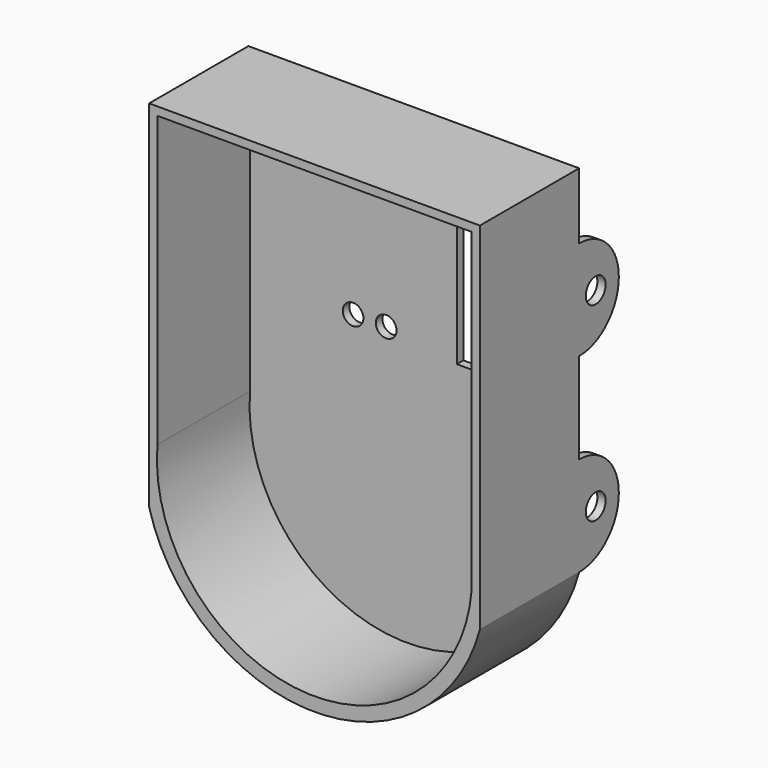
from build123d import *

# Parameters (mm, degrees)
F1_DEPTH = 30
F0_R     = 2.5
F2_DEPTH = 2
F3_R     = 3
F4_DEPTH = 2
F5_R     = 3
F6_DEPTH = 2


with BuildPart() as f1:
    # F0 (on Front) → F1 (new body)
    with BuildSketch(Plane.XZ):
        with BuildLine():
            Line((40, -43), (40, 43))
            Line((40, 43), (-40, 43))
            Line((-40, 43), (-40, -43))
            ThreePointArc((-40, -43), (0, -73.5773), (40, -43))
        make_face()
        with BuildLine():
            Line((-38, -29), (-38, 41))
            Line((-38, 41), (12, 41))
            Line((12, 41), (18, 41))
            Line((18, 41), (38, 41))
            Line((38, 41), (38, -35.250901))
            ThreePointArc((38, -35.250901), (-3.125451, -70.125451), (-38, -29))
        make_face(mode=Mode.SUBTRACT)
    extrude(amount=F1_DEPTH)

    # F0 (on Front) → F2 (join)
    with BuildSketch(Plane.XZ):
        with BuildLine():
            Line((12, 41), (-38, 41))
            Line((-38, 41), (-38, -29))
            ThreePointArc((-38, -29), (-3.125451, -70.125451), (38, -35.250901))
            Line((38, -35.250901), (38, 41))
            Line((38, 41), (18, 41))
            Line((18, 41), (18, -7))
            Line((18, -7), (12, -7))
            Line((12, -7), (12, 41))
        make_face()
        with Locations((-13.079933, -4.567117)):
            Circle(F0_R, mode=Mode.SUBTRACT)
        with Locations((-5.079933, -4.567117)):
            Circle(F0_R, mode=Mode.SUBTRACT)
        with Locations((-13.079933, 37.432883)):
            Circle(F0_R, mode=Mode.SUBTRACT)
        with Locations((-5.079933, 37.432883)):
            Circle(F0_R, mode=Mode.SUBTRACT)
    extrude(amount=F2_DEPTH)

    # F3 (on face) → F4 (join)
    with BuildSketch(Plane.YZ.offset(40)):
        with BuildLine():
            Line((0, 27), (0, 3))
            ThreePointArc((0, 3), (12, 15), (0, 27))
        make_face()
        with Locations((5, 15)):
            Circle(F3_R, mode=Mode.SUBTRACT)
        with BuildLine():
            Line((0, -19), (0, -43))
            ThreePointArc((0, -43), (12, -31), (0, -19))
        make_face()
        with Locations((5, -31)):
            Circle(F3_R, mode=Mode.SUBTRACT)
    extrude(amount=-F4_DEPTH)

    # F5 (on face) → F6 (join)
    with BuildSketch(Plane(origin=(-40, 0, 0), x_dir=(0, -1, 0), z_dir=(-1, 0, 0))):
        with BuildLine():
            Line((0, -43), (0, -19))
            ThreePointArc((0, -19), (-12, -31), (0, -43))
        make_face()
        with Locations((-5, -31)):
            Circle(F5_R, mode=Mode.SUBTRACT)
        with BuildLine():
            Line((0, 3), (0, 27))
            ThreePointArc((0, 27), (-12, 15), (0, 3))
        make_face()
        with Locations((-4.808913, 14.980538)):
            Circle(F5_R, mode=Mode.SUBTRACT)
    extrude(amount=-F6_DEPTH)


solid = f1.part
